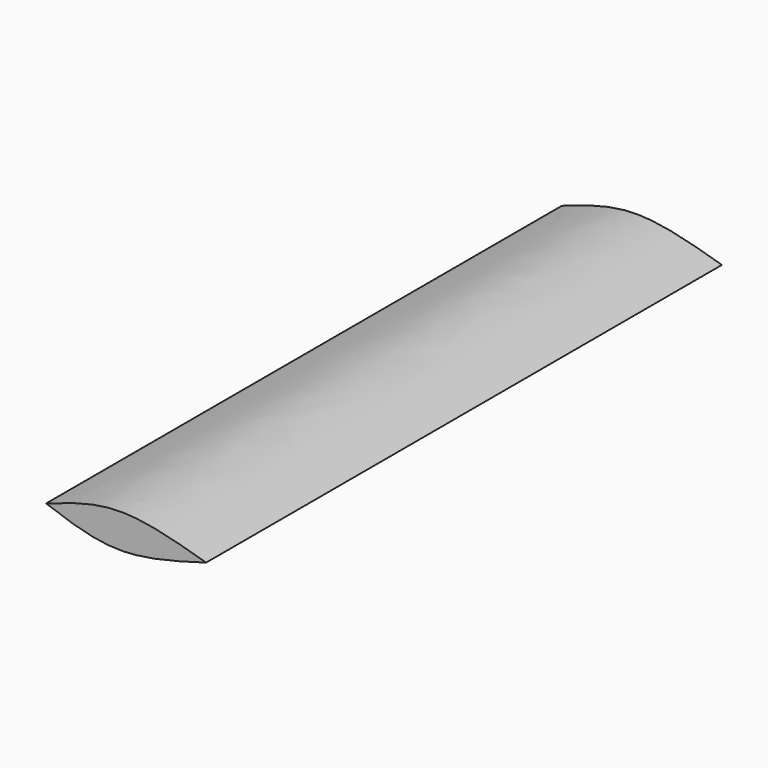
from build123d import *

# Parameters (mm, degrees)
F1_DEPTH = 304.8


with BuildPart() as f1:
    # F0 (on Front) → F1 (new body)
    with BuildSketch(Plane.XZ):
        with BuildLine():
            add(Edge.make_bspline(
                [(0, 0), (10.9551080188, 3.8995088858), (34.0438792935, 12.1180375021), (61.340273338, 4.1745037881), (75.6851360202, 0)],
                knots=[0, 0, 0, 0, 0.4744777402, 1, 1, 1, 1], degree=3))
            add(Edge.make_bspline(
                [(0, 0), (10.9551080188, -3.8995088858), (34.0438792935, -12.1180375021), (61.340273338, -4.1745037881), (75.6851360202, 0)],
                knots=[0, 0, 0, 0, 0.4744777402, 1, 1, 1, 1], degree=3))
        make_face()
    extrude(amount=F1_DEPTH)


solid = f1.part
